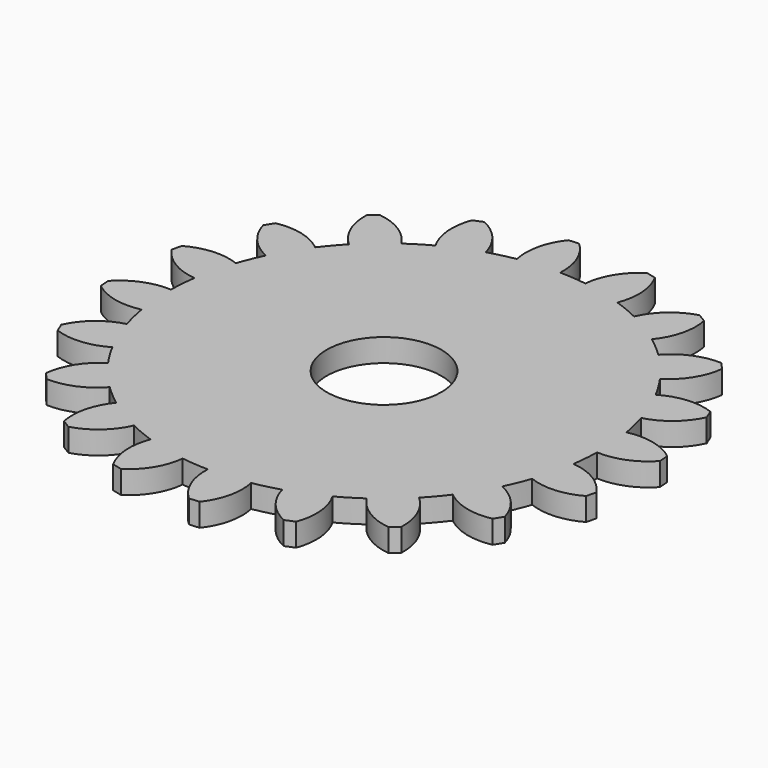
from build123d import *

# Parameters (mm, degrees)
F1_R     = 2.5
F2_DEPTH = 1


with BuildPart() as f2:
    # F1 (on Top) → F2 (new body)
    with BuildSketch(Plane.XY):
        with BuildLine():
            ThreePointArc((-1.6229776334, 9.2680599554), (-0.7382287643, 9.3800858219), (0.1531520845, 9.4078443957))
            ThreePointArc((0.1531520845, 9.4078443957), (-0.0317997207, 10.5374998224), (-0.6817601701, 11.4797736507))
            Line((-0.6817601701, 11.4797736507), (-1.1224656787, 11.4450893749))
            ThreePointArc((-1.1224656787, 11.4450893749), (-1.6170199342, 10.4127402859), (-1.6229776334, 9.2680599554))
        make_face()
        with BuildLine():
            ThreePointArc((9.4078443957, -0.1531520845), (9.4087792756, -0.0765785786), (9.4090909091, 0))
            ThreePointArc((9.4090909091, 0), (9.3737668631, 0.8145468262), (9.2680599554, 1.6229776334))
            ThreePointArc((9.2680599554, 1.6229776334), (9.1491169783, 2.1965086508), (8.9947183137, 2.7615275108))
            ThreePointArc((8.9947183137, 2.7615275108), (8.6928665104, 3.6007032045), (8.3129211438, 4.4075314852))
            ThreePointArc((8.3129211438, 4.4075314852), (8.0225688191, 4.9162364953), (7.7011265332, 5.4058895526))
            ThreePointArc((7.7011265332, 5.4058895526), (7.1547288581, 6.1107157275), (6.5440556911, 6.7606454461))
            ThreePointArc((6.5440556911, 6.7606454461), (6.1107157275, 7.1547288581), (5.6536948308, 7.52108546))
            ThreePointArc((5.6536948308, 7.52108546), (4.9162364953, 8.0225688191), (4.1346124722, 8.4519803265))
            ThreePointArc((4.1346124722, 8.4519803265), (3.6007032045, 8.6928665104), (3.0528400867, 8.90006512))
            ThreePointArc((3.0528400867, 8.90006512), (2.1965086508, 9.1491169783), (1.320444577, 9.3159764842))
            ThreePointArc((1.320444577, 9.3159764842), (0.7382287643, 9.3800858219), (0.1531520845, 9.4078443957))
            ThreePointArc((0.1531520845, 9.4078443957), (-0.7382287643, 9.3800858219), (-1.6229776334, 9.2680599554))
            ThreePointArc((-1.6229776334, 9.2680599554), (-2.1965086508, 9.1491169783), (-2.7615275108, 8.9947183137))
            ThreePointArc((-2.7615275108, 8.9947183137), (-3.6007032045, 8.6928665104), (-4.4075314852, 8.3129211438))
            ThreePointArc((-4.4075314852, 8.3129211438), (-4.9162364953, 8.0225688191), (-5.4058895526, 7.7011265332))
            ThreePointArc((-5.4058895526, 7.7011265332), (-6.1107157275, 7.1547288581), (-6.7606454461, 6.5440556911))
            ThreePointArc((-6.7606454461, 6.5440556911), (-7.1547288581, 6.1107157275), (-7.52108546, 5.6536948308))
            ThreePointArc((-7.52108546, 5.6536948308), (-8.0225688191, 4.9162364953), (-8.4519803265, 4.1346124722))
            ThreePointArc((-8.4519803265, 4.1346124722), (-8.6928665104, 3.6007032045), (-8.90006512, 3.0528400867))
            ThreePointArc((-8.90006512, 3.0528400867), (-9.1491169783, 2.1965086508), (-9.3159764842, 1.320444577))
            ThreePointArc((-9.3159764842, 1.320444577), (-9.3800858219, 0.7382287643), (-9.4078443957, 0.1531520845))
            ThreePointArc((-9.4078443957, 0.1531520845), (-9.3800858219, -0.7382287643), (-9.2680599554, -1.6229776334))
            ThreePointArc((-9.2680599554, -1.6229776334), (-9.1491169783, -2.1965086508), (-8.9947183137, -2.7615275108))
            ThreePointArc((-8.9947183137, -2.7615275108), (-8.6928665104, -3.6007032045), (-8.3129211438, -4.4075314852))
            ThreePointArc((-8.3129211438, -4.4075314852), (-8.0225688191, -4.9162364953), (-7.7011265332, -5.4058895526))
            ThreePointArc((-7.7011265332, -5.4058895526), (-7.1547288581, -6.1107157275), (-6.5440556911, -6.7606454461))
            ThreePointArc((-6.5440556911, -6.7606454461), (-6.1107157275, -7.1547288581), (-5.6536948308, -7.52108546))
            ThreePointArc((-5.6536948308, -7.52108546), (-4.9162364953, -8.0225688191), (-4.1346124722, -8.4519803265))
            ThreePointArc((-4.1346124722, -8.4519803265), (-3.6007032045, -8.6928665104), (-3.0528400867, -8.90006512))
            ThreePointArc((-3.0528400867, -8.90006512), (-2.1965086508, -9.1491169783), (-1.320444577, -9.3159764842))
            ThreePointArc((-1.320444577, -9.3159764842), (-0.7382287643, -9.3800858219), (-0.1531520845, -9.4078443957))
            ThreePointArc((-0.1531520845, -9.4078443957), (0.7382287643, -9.3800858219), (1.6229776334, -9.2680599554))
            ThreePointArc((1.6229776334, -9.2680599554), (2.1965086508, -9.1491169783), (2.7615275108, -8.9947183137))
            ThreePointArc((2.7615275108, -8.9947183137), (3.6007032045, -8.6928665104), (4.4075314852, -8.3129211438))
            ThreePointArc((4.4075314852, -8.3129211438), (4.9162364953, -8.0225688191), (5.4058895526, -7.7011265332))
            ThreePointArc((5.4058895526, -7.7011265332), (6.1107157275, -7.1547288581), (6.7606454461, -6.5440556911))
            ThreePointArc((6.7606454461, -6.5440556911), (7.1547288581, -6.1107157275), (7.52108546, -5.6536948308))
            ThreePointArc((7.52108546, -5.6536948308), (8.0225688191, -4.9162364953), (8.4519803265, -4.1346124722))
            ThreePointArc((8.4519803265, -4.1346124722), (8.6928665104, -3.6007032045), (8.90006512, -3.0528400867))
            ThreePointArc((8.90006512, -3.0528400867), (9.1491169783, -2.1965086508), (9.3159764842, -1.320444577))
            ThreePointArc((9.3159764842, -1.320444577), (9.3800858219, -0.7382287643), (9.4078443957, -0.1531520845))
        make_face()
        Circle(F1_R, mode=Mode.SUBTRACT)
        with BuildLine():
            ThreePointArc((-4.4075314852, 8.3129211438), (-3.6007032045, 8.6928665104), (-2.7615275108, 8.9947183137))
            ThreePointArc((-2.7615275108, 8.9947183137), (-3.286509855, 10.0119312174), (-4.195837602, 10.7072380574))
            Line((-4.195837602, 10.7072380574), (-4.604255417, 10.5380658593))
            ThreePointArc((-4.604255417, 10.5380658593), (-4.7555910517, 9.4034178615), (-4.4075314852, 8.3129211438))
        make_face()
        with BuildLine():
            ThreePointArc((-6.7606454461, 6.5440556911), (-6.1107157275, 7.1547288581), (-5.4058895526, 7.7011265332))
            ThreePointArc((-5.4058895526, 7.7011265332), (-6.2195135061, 8.5063250277), (-7.2991972152, 8.8866034014))
            Line((-7.2991972152, 8.8866034014), (-7.6353485554, 8.5995030343))
            ThreePointArc((-7.6353485554, 8.5995030343), (-7.428651783, 7.4736233793), (-6.7606454461, 6.5440556911))
        make_face()
        with BuildLine():
            ThreePointArc((-8.4519803265, 4.1346124722), (-8.0225688191, 4.9162364953), (-7.52108546, 5.6536948308))
            ThreePointArc((-7.52108546, 5.6536948308), (-8.5437078414, 6.1680604771), (-9.6880605486, 6.1960860878))
            Line((-9.6880605486, 6.1960860878), (-9.9190405786, 5.8191609361))
            ThreePointArc((-9.9190405786, 5.8191609361), (-9.3745443193, 4.812258569), (-8.4519803265, 4.1346124722))
        make_face()
        with BuildLine():
            ThreePointArc((-9.3159764842, 1.320444577), (-9.1491169783, 2.1965086508), (-8.90006512, 3.0528400867))
            ThreePointArc((-8.90006512, 3.0528400867), (-10.0315845257, 3.2260231917), (-11.1285890147, 2.8990526973))
            Line((-11.1285890147, 2.8990526973), (-11.2317877999, 2.469198821))
            ThreePointArc((-11.2317877999, 2.469198821), (-10.4027911413, 1.679836361), (-9.3159764842, 1.320444577))
        make_face()
        with BuildLine():
            ThreePointArc((-9.2680599554, -1.6229776334), (-9.3800858219, -0.7382287643), (-9.4078443957, 0.1531520845))
            ThreePointArc((-9.4078443957, 0.1531520845), (-10.5374998224, -0.0317997207), (-11.4797736507, -0.6817601701))
            Line((-11.4797736507, -0.6817601701), (-11.4450893749, -1.1224656787))
            ThreePointArc((-11.4450893749, -1.1224656787), (-10.4127402859, -1.6170199342), (-9.2680599554, -1.6229776334))
        make_face()
        with BuildLine():
            ThreePointArc((-10.5380658593, -4.604255417), (-9.4034178615, -4.7555910517), (-8.3129211438, -4.4075314852))
            ThreePointArc((-8.3129211438, -4.4075314852), (-8.6928665104, -3.6007032045), (-8.9947183137, -2.7615275108))
            ThreePointArc((-8.9947183137, -2.7615275108), (-10.0119312174, -3.286509855), (-10.7072380574, -4.195837602))
            Line((-10.7072380574, -4.195837602), (-10.5380658593, -4.604255417))
        make_face()
        with BuildLine():
            ThreePointArc((-8.5995030343, -7.6353485554), (-7.4736233793, -7.428651783), (-6.5440556911, -6.7606454461))
            ThreePointArc((-6.5440556911, -6.7606454461), (-7.1547288581, -6.1107157275), (-7.7011265332, -5.4058895526))
            ThreePointArc((-7.7011265332, -5.4058895526), (-8.5063250277, -6.2195135061), (-8.8866034014, -7.2991972152))
            Line((-8.8866034014, -7.2991972152), (-8.5995030343, -7.6353485554))
        make_face()
        with BuildLine():
            ThreePointArc((-5.8191609361, -9.9190405786), (-4.812258569, -9.3745443193), (-4.1346124722, -8.4519803265))
            ThreePointArc((-4.1346124722, -8.4519803265), (-4.9162364953, -8.0225688191), (-5.6536948308, -7.52108546))
            ThreePointArc((-5.6536948308, -7.52108546), (-6.1680604771, -8.5437078414), (-6.1960860878, -9.6880605486))
            Line((-6.1960860878, -9.6880605486), (-5.8191609361, -9.9190405786))
        make_face()
        with BuildLine():
            ThreePointArc((-2.469198821, -11.2317877999), (-1.679836361, -10.4027911413), (-1.320444577, -9.3159764842))
            ThreePointArc((-1.320444577, -9.3159764842), (-2.1965086508, -9.1491169783), (-3.0528400867, -8.90006512))
            ThreePointArc((-3.0528400867, -8.90006512), (-3.2260231917, -10.0315845257), (-2.8990526973, -11.1285890147))
            Line((-2.8990526973, -11.1285890147), (-2.469198821, -11.2317877999))
        make_face()
        with BuildLine():
            ThreePointArc((1.1224656787, -11.4450893749), (1.6170199342, -10.4127402859), (1.6229776334, -9.2680599554))
            ThreePointArc((1.6229776334, -9.2680599554), (0.7382287643, -9.3800858219), (-0.1531520845, -9.4078443957))
            ThreePointArc((-0.1531520845, -9.4078443957), (0.0317997207, -10.5374998224), (0.6817601701, -11.4797736507))
            Line((0.6817601701, -11.4797736507), (1.1224656787, -11.4450893749))
        make_face()
        with BuildLine():
            ThreePointArc((4.604255417, -10.5380658593), (4.7555910517, -9.4034178615), (4.4075314852, -8.3129211438))
            ThreePointArc((4.4075314852, -8.3129211438), (3.6007032045, -8.6928665104), (2.7615275108, -8.9947183137))
            ThreePointArc((2.7615275108, -8.9947183137), (3.286509855, -10.0119312174), (4.195837602, -10.7072380574))
            Line((4.195837602, -10.7072380574), (4.604255417, -10.5380658593))
        make_face()
        with BuildLine():
            ThreePointArc((7.6353485554, -8.5995030343), (7.428651783, -7.4736233793), (6.7606454461, -6.5440556911))
            ThreePointArc((6.7606454461, -6.5440556911), (6.1107157275, -7.1547288581), (5.4058895526, -7.7011265332))
            ThreePointArc((5.4058895526, -7.7011265332), (6.2195135061, -8.5063250277), (7.2991972152, -8.8866034014))
            Line((7.2991972152, -8.8866034014), (7.6353485554, -8.5995030343))
        make_face()
        with BuildLine():
            ThreePointArc((9.9190405786, -5.8191609361), (9.3745443193, -4.812258569), (8.4519803265, -4.1346124722))
            ThreePointArc((8.4519803265, -4.1346124722), (8.0225688191, -4.9162364953), (7.52108546, -5.6536948308))
            ThreePointArc((7.52108546, -5.6536948308), (8.5437078414, -6.1680604771), (9.6880605486, -6.1960860878))
            Line((9.6880605486, -6.1960860878), (9.9190405786, -5.8191609361))
        make_face()
        with BuildLine():
            ThreePointArc((11.2317877999, -2.469198821), (10.4027911413, -1.679836361), (9.3159764842, -1.320444577))
            ThreePointArc((9.3159764842, -1.320444577), (9.1491169783, -2.1965086508), (8.90006512, -3.0528400867))
            ThreePointArc((8.90006512, -3.0528400867), (10.0315845257, -3.2260231917), (11.1285890147, -2.8990526973))
            Line((11.1285890147, -2.8990526973), (11.2317877999, -2.469198821))
        make_face()
        with BuildLine():
            ThreePointArc((9.2680599554, 1.6229776334), (9.3737668631, 0.8145468262), (9.4090909091, 0))
            ThreePointArc((9.4090909091, 0), (9.4087792756, -0.0765785786), (9.4078443957, -0.1531520845))
            ThreePointArc((9.4078443957, -0.1531520845), (10.5374998224, 0.0317997207), (11.4797736507, 0.6817601701))
            Line((11.4797736507, 0.6817601701), (11.4450893749, 1.1224656787))
            ThreePointArc((11.4450893749, 1.1224656787), (10.4127402859, 1.6170199342), (9.2680599554, 1.6229776334))
        make_face()
        with BuildLine():
            ThreePointArc((8.3129211438, 4.4075314852), (8.6928665104, 3.6007032045), (8.9947183137, 2.7615275108))
            ThreePointArc((8.9947183137, 2.7615275108), (10.0119312174, 3.286509855), (10.7072380574, 4.195837602))
            Line((10.7072380574, 4.195837602), (10.5380658593, 4.604255417))
            ThreePointArc((10.5380658593, 4.604255417), (9.4034178615, 4.7555910517), (8.3129211438, 4.4075314852))
        make_face()
        with BuildLine():
            ThreePointArc((6.5440556911, 6.7606454461), (7.1547288581, 6.1107157275), (7.7011265332, 5.4058895526))
            ThreePointArc((7.7011265332, 5.4058895526), (8.5063250277, 6.2195135061), (8.8866034014, 7.2991972152))
            Line((8.8866034014, 7.2991972152), (8.5995030343, 7.6353485554))
            ThreePointArc((8.5995030343, 7.6353485554), (7.4736233793, 7.428651783), (6.5440556911, 6.7606454461))
        make_face()
        with BuildLine():
            ThreePointArc((4.1346124722, 8.4519803265), (4.9162364953, 8.0225688191), (5.6536948308, 7.52108546))
            ThreePointArc((5.6536948308, 7.52108546), (6.1680604771, 8.5437078414), (6.1960860878, 9.6880605486))
            Line((6.1960860878, 9.6880605486), (5.8191609361, 9.9190405786))
            ThreePointArc((5.8191609361, 9.9190405786), (4.812258569, 9.3745443193), (4.1346124722, 8.4519803265))
        make_face()
        with BuildLine():
            ThreePointArc((1.320444577, 9.3159764842), (2.1965086508, 9.1491169783), (3.0528400867, 8.90006512))
            ThreePointArc((3.0528400867, 8.90006512), (3.2260231917, 10.0315845257), (2.8990526973, 11.1285890147))
            Line((2.8990526973, 11.1285890147), (2.469198821, 11.2317877999))
            ThreePointArc((2.469198821, 11.2317877999), (1.679836361, 10.4027911413), (1.320444577, 9.3159764842))
        make_face()
    extrude(amount=F2_DEPTH)


solid = f2.part
